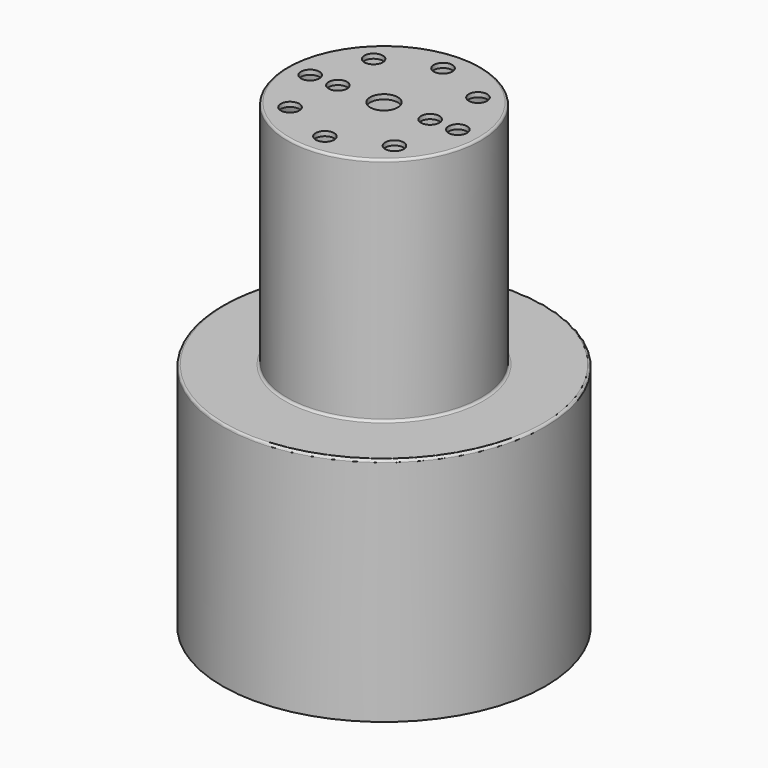
from build123d import *

# Parameters (mm, degrees)
F0_R     = 21
F1_DEPTH = 50
F0_R_2   = 35
F2_DEPTH = 50
F4_T     = -1
F5_R     = 0.5
F6_R     = 2
F6_R_2   = 3
F7_DEPTH = 25


with BuildPart() as f1:
    # F0 (on Top) → F1 (new body, symmetric)
    with BuildSketch(Plane.XY):
        Circle(F0_R)
    extrude(amount=F1_DEPTH, both=True)


with BuildPart() as f2:
    # F0 (on Top) → F2 (new body)
    with BuildSketch(Plane.XY):
        Circle(F0_R_2)
        Circle(F0_R, mode=Mode.SUBTRACT)
    extrude(amount=-F2_DEPTH)


with BuildPart() as f1_1:
    add(f1.part)

    # F3: union F2
    add(f2.part)

    # F4
    f4_openings = [f1_1.faces().sort_by_distance(p)[0] for p in [
        (0, 0, -50),
    ]]
    offset(amount=F4_T, openings=f4_openings, kind=Kind.INTERSECTION)

    # F5
    f5_edges = [f1_1.edges().sort_by_distance(p)[0] for p in [
        (-35, 0, 0),
        (-21, 0, 0),
        (-21, 0, 50),
        (-34, 0, -1),
        (-20, 0, -1),
        (-20, 0, 49),
    ]]
    fillet(f5_edges, radius=F5_R)

    # F6 (on face) → F7 (cut)
    with BuildSketch(Plane.XY.offset(50)):
        with Locations((-11.313708499, 11.313708499)):
            Circle(F6_R)
        with Locations((0, 16)):
            Circle(F6_R)
        with Locations((11.313708499, 11.313708499)):
            Circle(F6_R)
        with Locations((10, 0)):
            Circle(F6_R)
        with Locations((-10, 0)):
            Circle(F6_R)
        with Locations((-16, 0)):
            Circle(F6_R)
        with Locations((16, 0)):
            Circle(F6_R)
        with Locations((11.313708499, -11.313708499)):
            Circle(F6_R)
        with Locations((0, -16)):
            Circle(F6_R)
        with Locations((-11.313708499, -11.313708499)):
            Circle(F6_R)
        Circle(F6_R_2)
    extrude(amount=-F7_DEPTH, mode=Mode.SUBTRACT)


solid = f1_1.part
